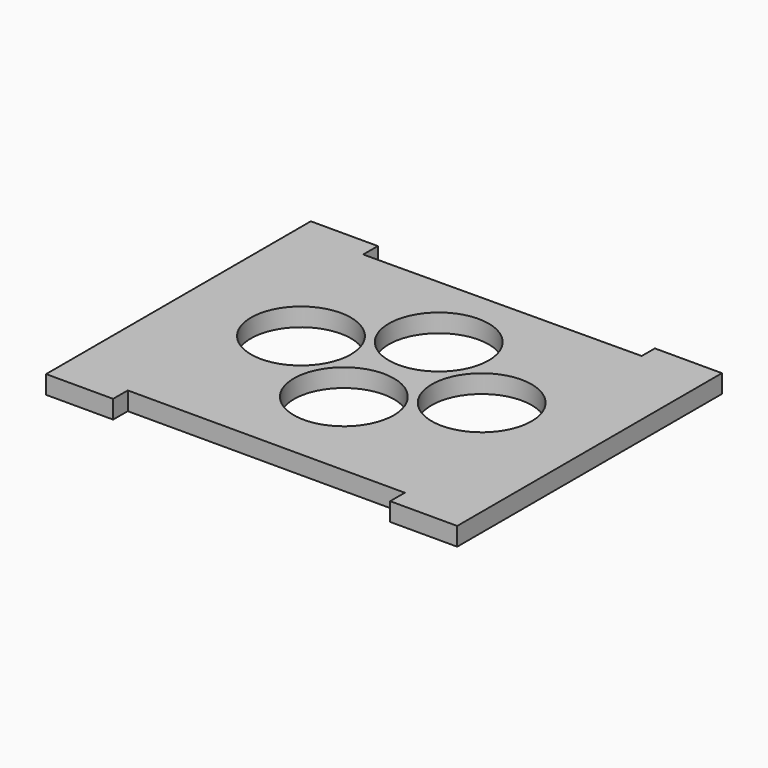
from build123d import *

# Parameters (mm, degrees)
F0_R     = 12.15
F1_DEPTH = 4.45


with BuildPart() as f1:
    # F0 (on Top) → F1 (new body)
    with BuildSketch(Plane.XY):
        Polygon((50, -33.5685), (50, -16.64242), (50, 16.64242), (50, 33.5685), (50, 34.008425), (50, 38.0185), (33.6925, 38.0185), (33.6925, 34.008425), (-33.6925, 33.5685), (-33.6925, 38.0185), (-50, 38.0185), (-50, 33.5685), (-50, 16.64242), (-50, -16.64242), (-50, -33.5685), (-50, -38.0185), (-50, -42.4685), (-33.6925, -42.4685), (-33.6925, -38.0185), (33.6925, -38.0185), (33.6925, -42.4685), (50, -42.4685), (50, -38.0185), align=None)
        with Locations((0, -14.429661)):
            Circle(F0_R, mode=Mode.SUBTRACT)
        with Locations((-21.987291, 0)):
            Circle(F0_R, mode=Mode.SUBTRACT)
        with Locations((21.987292, 0)):
            Circle(F0_R, mode=Mode.SUBTRACT)
        with Locations((0, 14.429661)):
            Circle(F0_R, mode=Mode.SUBTRACT)
    extrude(amount=F1_DEPTH)


solid = f1.part
